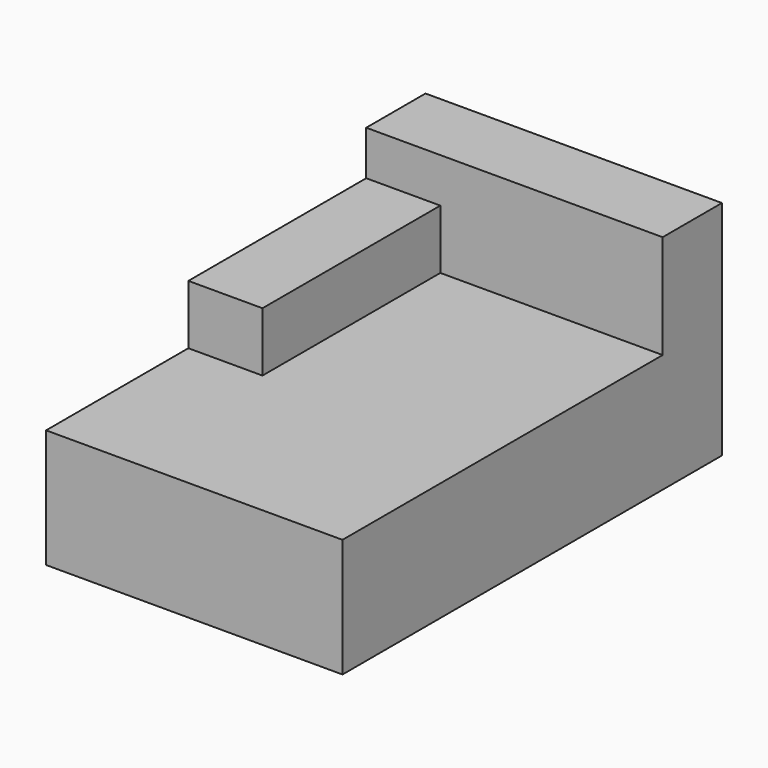
from build123d import *

# Parameters (mm, degrees)
F0_W     = 1000
F0_H     = 1600
F1_DEPTH = 750
F3_DEPTH = 350
F4_W     = 250
F4_H     = 750
F5_DEPTH = 150


with BuildPart() as f1:
    # F0 (on Top) → F1 (new body)
    with BuildSketch(Plane.XY):
        Rectangle(F0_W, F0_H)
    extrude(amount=F1_DEPTH)

    # F2 (on face) → F3 (cut)
    with BuildSketch(Plane.XY.offset(750)):
        Polygon((-250, -200), (-500, -200), (-500, -800), (500, -800), (500, 550), (-250, 550), align=None)
    extrude(amount=-F3_DEPTH, mode=Mode.SUBTRACT)

    # F4 (on face) → F5 (cut)
    with BuildSketch(Plane.XY.offset(750)):
        with Locations((-375, 175)):
            Rectangle(F4_W, F4_H)
    extrude(amount=-F5_DEPTH, mode=Mode.SUBTRACT)


solid = f1.part
